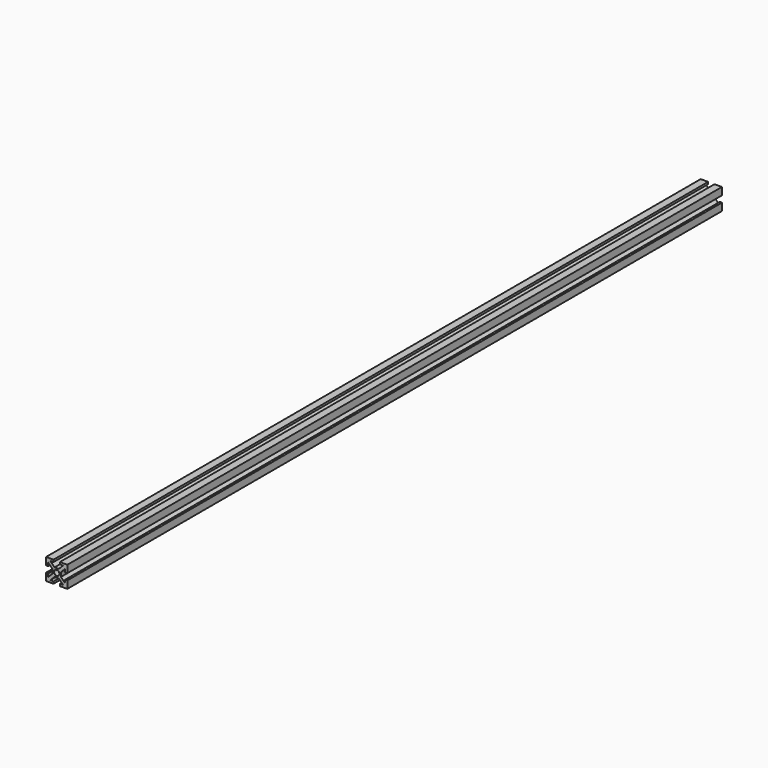
from build123d import *

# Parameters (mm, degrees)
F0_R     = 1.25
F1_DEPTH = 385


with BuildPart() as f1:
    # F0 (on Front) → F1 (new body)
    with BuildSketch(Plane.XZ):
        Polygon((-3.5, 0), (0, 0), (0, 3.5), (-1, 3.5), (-1, 2), (-3, 4), (-3, 5), (-3, 6), (-1, 8), (-1, 6.5), (0, 6.5), (0, 10), (-3.5, 10), (-3.5, 9), (-2, 9), (-4, 7), (-5, 7), (-6, 7), (-8, 9), (-6.5, 9), (-6.5, 10), (-10, 10), (-10, 6.5), (-9, 6.5), (-9, 8), (-7, 6), (-7, 5), (-7, 4), (-9, 2), (-9, 3.5), (-10, 3.5), (-10, 0), (-6.5, 0), (-6.5, 1), (-8, 1), (-6, 3), (-5, 3), (-4, 3), (-2, 1), (-3.5, 1), align=None)
        with Locations((-5, 5)):
            Circle(F0_R, mode=Mode.SUBTRACT)
    extrude(amount=F1_DEPTH)


solid = f1.part
